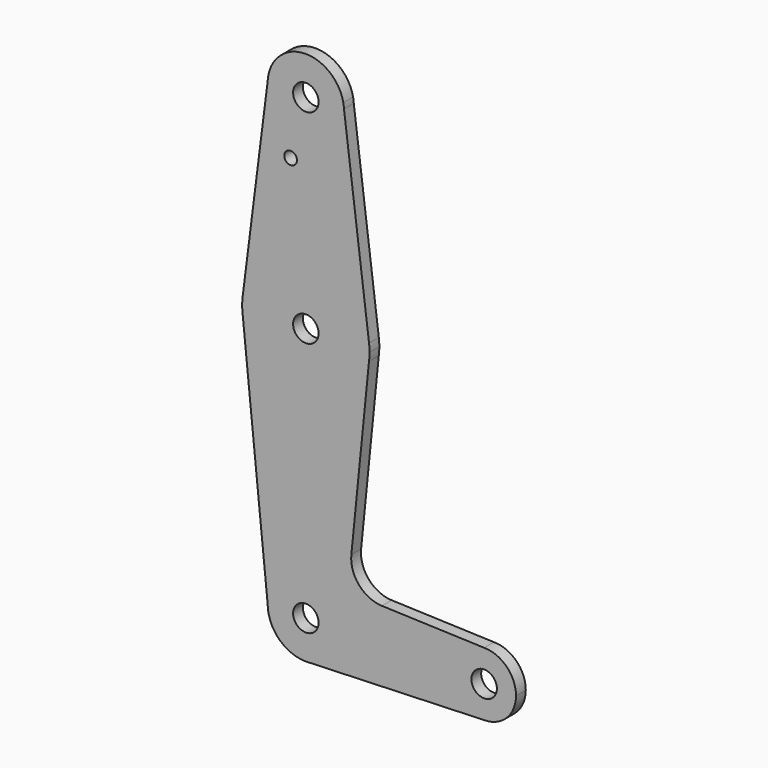
from build123d import *

# Parameters (mm, degrees)
F0_R     = 3.175
F0_R_2   = 1.5875
F1_DEPTH = 3.048


with BuildPart() as f1:
    # F0 (on Front) → F1 (new body)
    with BuildSketch(Plane.XZ):
        with BuildLine():
            Line((-19.166087, 63.449108), (-19.340739, 64.829739))
            ThreePointArc((-19.340739, 64.829739), (-28.677856, 72.47222), (-38.014972, 64.829739))
            Line((-38.014972, 64.829739), (-38.189624, 63.449108))
            ThreePointArc((-38.189624, 63.449108), (-28.928886, 53.425529), (-19.152856, 62.94722))
            ThreePointArc((-19.152856, 62.94722), (-19.156164, 63.198251), (-19.166087, 63.449108))
        make_face()
        with Locations((-28.677856, 62.94722)):
            Circle(F0_R, mode=Mode.SUBTRACT)
        with BuildLine():
            ThreePointArc((-19.166087, 63.449108), (-19.228165, 64.142617), (-19.340739, 64.829739))
            Line((-19.340739, 64.829739), (-19.166087, 63.449108))
        make_face()
        with BuildLine():
            Line((-38.189624, 63.449108), (-38.014972, 64.829739))
            ThreePointArc((-38.014972, 64.829739), (-38.127546, 64.142617), (-38.189624, 63.449108))
        make_face()
        with BuildLine():
            Line((-12.928371, 14.139548), (-19.166087, 63.449108))
            ThreePointArc((-19.166087, 63.449108), (-19.156164, 63.198251), (-19.152856, 62.94722))
            ThreePointArc((-19.152856, 62.94722), (-28.928886, 53.425529), (-38.189624, 63.449108))
            Line((-38.189624, 63.449108), (-44.42734, 14.139548))
            ThreePointArc((-44.42734, 14.139548), (-28.677856, 28.02222), (-12.928371, 14.139548))
        make_face()
        with Locations((-32.475498, 48.391875)):
            Circle(F0_R_2, mode=Mode.SUBTRACT)
        with BuildLine():
            ThreePointArc((-12.802856, 12.14722), (-12.834266, 13.145359), (-12.928371, 14.139548))
            ThreePointArc((-12.928371, 14.139548), (-28.677856, 28.02222), (-44.42734, 14.139548))
            ThreePointArc((-44.42734, 14.139548), (-44.552856, 12.14722), (-44.42734, 10.154892))
            ThreePointArc((-44.42734, 10.154892), (-28.677856, -3.72778), (-12.928371, 10.154892))
            ThreePointArc((-12.928371, 10.154892), (-12.834266, 11.149081), (-12.802856, 12.14722))
        make_face()
        with Locations((-28.677856, 12.14722)):
            Circle(F0_R, mode=Mode.SUBTRACT)
        with BuildLine():
            ThreePointArc((-12.928371, 10.154892), (-28.677856, -3.72778), (-44.42734, 10.154892))
            Line((-44.42734, 10.154892), (-38.202856, -51.35278))
            ThreePointArc((-38.202856, -51.35278), (-28.677856, -41.82778), (-19.152856, -51.35278))
            ThreePointArc((-19.152856, -51.35278), (-21.706566, -57.843291), (-27.998365, -60.853512))
            Line((-27.998365, -60.853512), (15.772144, -59.29028))
            ThreePointArc((15.772144, -59.29028), (7.834644, -51.35278), (15.772144, -43.41528))
            Line((15.772144, -43.41528), (-9.712194, -42.505125))
            ThreePointArc((-9.712194, -42.505125), (-15.418498, -39.78731), (-17.338855, -33.765629))
            Line((-17.338855, -33.765629), (-12.928371, 10.154892))
        make_face()
        with BuildLine():
            ThreePointArc((-19.152856, -51.35278), (-28.677856, -41.82778), (-38.202856, -51.35278))
            ThreePointArc((-38.202856, -51.35278), (-35.413048, -58.087972), (-28.677856, -60.87778))
            Line((-28.677856, -60.87778), (-27.998365, -60.853512))
            ThreePointArc((-27.998365, -60.853512), (-21.706566, -57.843291), (-19.152856, -51.35278))
        make_face()
        with Locations((-28.677856, -51.35278)):
            Circle(F0_R, mode=Mode.SUBTRACT)
        with BuildLine():
            Line((-27.998365, -60.853512), (-28.677856, -60.87778))
            ThreePointArc((-28.677856, -60.87778), (-28.337894, -60.871711), (-27.998365, -60.853512))
        make_face()
        with BuildLine():
            ThreePointArc((23.709644, -51.35278), (21.384804, -45.74012), (15.772144, -43.41528))
            ThreePointArc((15.772144, -43.41528), (7.834644, -51.35278), (15.772144, -59.29028))
            ThreePointArc((15.772144, -59.29028), (21.384804, -56.96544), (23.709644, -51.35278))
        make_face()
        with Locations((15.772144, -51.35278)):
            Circle(F0_R, mode=Mode.SUBTRACT)
    extrude(amount=F1_DEPTH)


solid = f1.part
